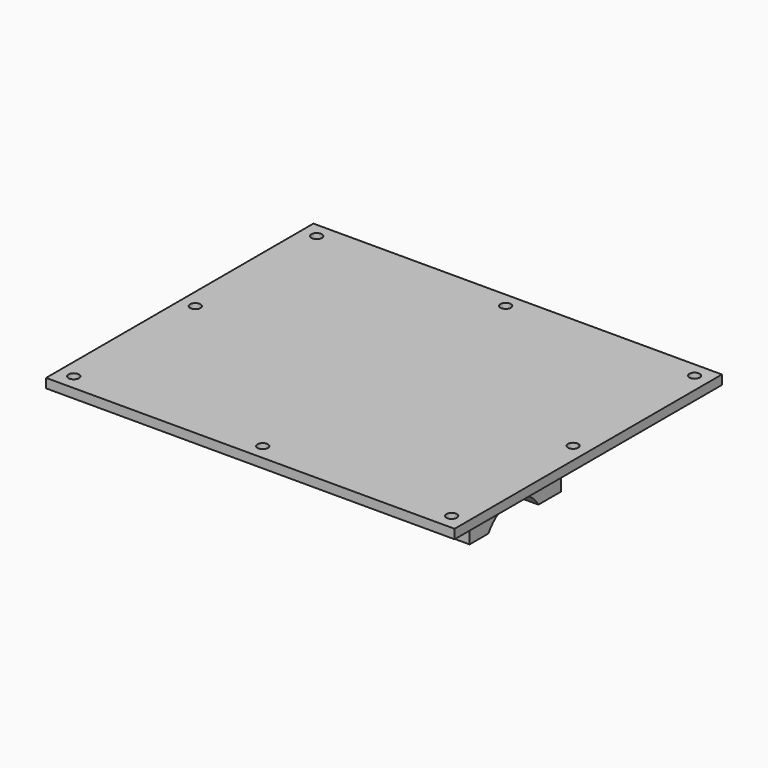
from build123d import *

# Parameters (mm, degrees)
SKETCH009_W     = 140.059471
SKETCH009_H     = 114.571171
PAD008_DEPTH    = 3.175
SKETCH013_R     = 1.778
POCKET003_DEPTH = 5.00126
SKETCH020_W     = 133.35
SKETCH020_H     = 39.116
PAD012_DEPTH    = 6.985
SKETCH021_R     = 12.49934
POCKET007_DEPTH = 136.729619
SKETCH022_W     = 76.2
SKETCH022_H     = 43.18
POCKET008_DEPTH = 8.89


with BuildPart() as part:
    # Sketch009 (on Face1 of ReferencePad006) → Pad008 (new body)
    with BuildSketch(Plane.XY.offset(25.4)):
        with Locations((0.023884, -0.09941)):
            Rectangle(SKETCH009_W, SKETCH009_H)
    extrude(amount=PAD008_DEPTH)

    # Sketch013 (on Face6 of Pad008) → Pocket003 (cut)
    with BuildSketch(Plane.XY.offset(28.575)):
        with Locations((64.782738, 52.056831)):
            Circle(SKETCH013_R)
        with Locations((64.782738, 0)):
            Circle(SKETCH013_R)
        with Locations((64.782738, -52.056831)):
            Circle(SKETCH013_R)
        with Locations((0, 52.056831)):
            Circle(SKETCH013_R)
        with Locations((-64.782738, 52.056831)):
            Circle(SKETCH013_R)
        with Locations((-64.782738, 0.043989)):
            Circle(SKETCH013_R)
        with Locations((-64.782738, -52.056831)):
            Circle(SKETCH013_R)
        with Locations((0, -52.056831)):
            Circle(SKETCH013_R)
    extrude(amount=-POCKET003_DEPTH, mode=Mode.SUBTRACT)

    # Sketch020 (on Face5 of Pad008) → Pad012 (join)
    with BuildSketch(Plane(origin=(0, 0, 25.4), x_dir=(1, 0, 0), z_dir=(0, 0, -1))):
        with Locations((0, 27.178)):
            Rectangle(SKETCH020_W, SKETCH020_H)
    extrude(amount=PAD012_DEPTH)

    # Sketch021 (on Face12 of Pad012) → Pocket007 (cut, through all)
    with BuildSketch(Plane(origin=(-66.675, 0, 0), x_dir=(0, -1, 0), z_dir=(-1, 0, 0))):
        with Locations((27.94, 11.99134)):
            Circle(SKETCH021_R)
    extrude(amount=-POCKET007_DEPTH, mode=Mode.SUBTRACT)

    # Sketch022 (on Face4 of Pocket007) → Pocket008 (cut)
    with BuildSketch(Plane(origin=(0, 0, 25.4), x_dir=(1, 0, 0), z_dir=(0, 0, -1))):
        with Locations((0, 27.94)):
            Rectangle(SKETCH022_W, SKETCH022_H)
    extrude(amount=POCKET008_DEPTH, mode=Mode.SUBTRACT)


solid = part.part
